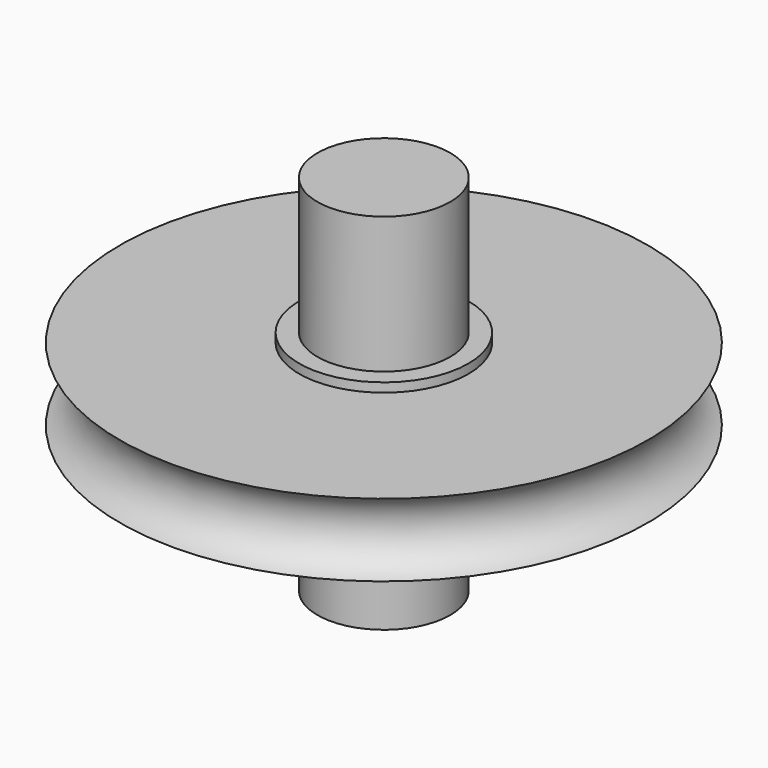
from build123d import *

# Parameters (mm, degrees)
F0_R     = 7.3008019747
F1_DEPTH = 20
F0_R_2   = 9.3008019747
F2_DEPTH = 5
F0_R_3   = 29.0307788443
F3_DEPTH = 4


with BuildPart() as f1:
    # F0 (on Top) → F1 (new body, symmetric)
    with BuildSketch(Plane.XY):
        Circle(F0_R)
    extrude(amount=F1_DEPTH, both=True)

    # F0 (on Top) → F2 (join, symmetric)
    with BuildSketch(Plane.XY):
        Circle(F0_R_2)
        Circle(F0_R, mode=Mode.SUBTRACT)
    extrude(amount=F2_DEPTH, both=True)

    # F0 (on Top) → F3 (join, symmetric)
    with BuildSketch(Plane.XY):
        Circle(F0_R_3)
        Circle(F0_R_2, mode=Mode.SUBTRACT)
    extrude(amount=F3_DEPTH, both=True)

    # F5: sweep along a path in F5_path
    with BuildLine(Plane(origin=(29.0307788443, 0, 4), x_dir=(0, -1, 0), z_dir=(0, 0, -1))) as f5_path:
        CenterArc((0, 29.0307788443), 29.0307788443, 0, 360)
    # F4 (on Right) → F5 (sweep, cut)
    with BuildSketch(Plane.YZ):
        with BuildLine():
            Line((-29.0307788443, 4), (-29.0307788443, -4))
            ThreePointArc((-29.0307788443, -4), (-26.0956077828, 0), (-29.0307788443, 4))
        make_face()
    sweep(path=f5_path.line, mode=Mode.SUBTRACT)


solid = f1.part
